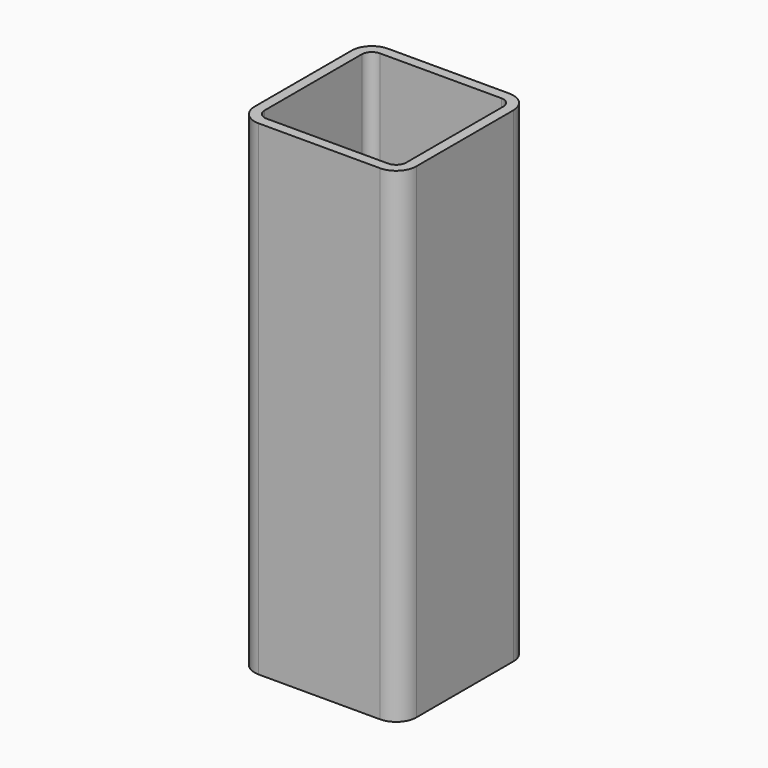
from build123d import *

# Parameters (mm, degrees)
F1_DEPTH = 152.4


with BuildPart() as f1:
    # F0 (on Top) → F1 (new body, symmetric)
    with BuildSketch(Plane.XY):
        with BuildLine():
            Line((-38.1, -50.8), (38.1, -50.8))
            ThreePointArc((38.1, -50.8), (47.0802561211, -47.0802561211), (50.8, -38.1))
            Line((50.8, -38.1), (50.8, 38.1))
            ThreePointArc((50.8, 38.1), (47.0802561211, 47.0802561211), (38.1, 50.8))
            Line((38.1, 50.8), (-38.1, 50.8))
            ThreePointArc((-38.1, 50.8), (-47.0802561211, 47.0802561211), (-50.8, 38.1))
            Line((-50.8, 38.1), (-50.8, -38.1))
            ThreePointArc((-50.8, -38.1), (-47.0802561211, -47.0802561211), (-38.1, -50.8))
        make_face()
        with BuildLine():
            ThreePointArc((38.1, 44.4499999285), (42.59012801, 42.59012801), (44.4499999285, 38.1))
            Line((44.4499999285, 38.1), (44.4499999285, -38.1))
            ThreePointArc((44.4499999285, -38.1), (42.59012801, -42.59012801), (38.1, -44.4499999285))
            Line((38.1, -44.4499999285), (-38.1, -44.4499999285))
            ThreePointArc((-38.1, -44.4499999285), (-42.59012801, -42.59012801), (-44.4499999285, -38.1))
            Line((-44.4499999285, -38.1), (-44.4499999285, 38.1))
            ThreePointArc((-44.4499999285, 38.1), (-42.59012801, 42.59012801), (-38.1, 44.4499999285))
            Line((-38.1, 44.4499999285), (38.1, 44.4499999285))
        make_face(mode=Mode.SUBTRACT)
    extrude(amount=F1_DEPTH, both=True)


solid = f1.part
